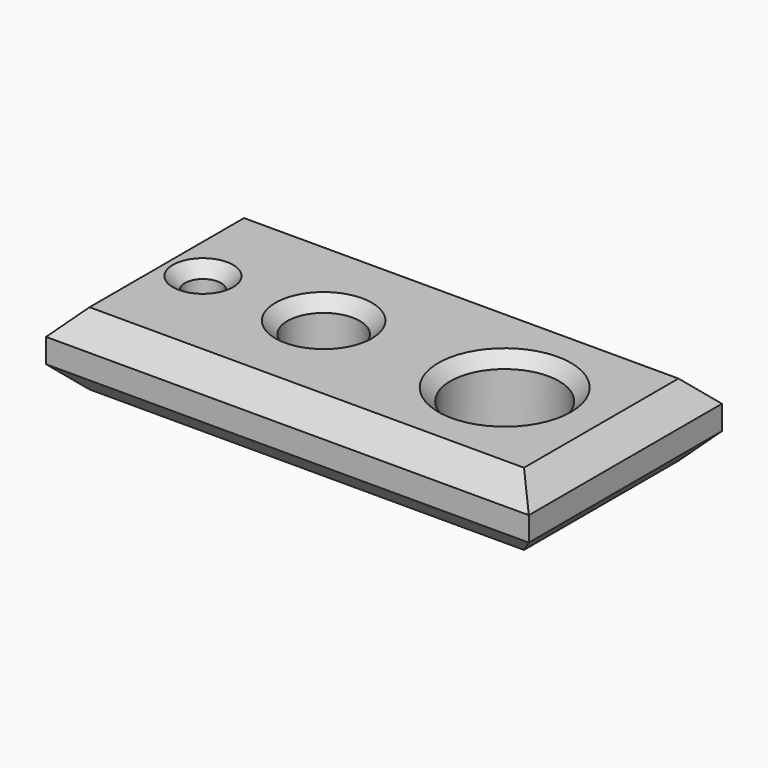
from build123d import *

# Parameters (mm, degrees)
F0_W     = 200
F0_H     = 100
F0_R     = 7.5
F0_R_2   = 15
F0_R_3   = 22.5
F1_DEPTH = 30
F2_SIZE2 = 5
F2_SIZE  = 5
F3_SIZE2 = 10
F3_SIZE  = 10


with BuildPart() as f1:
    # F0 (on Top) → F1 (new body)
    with BuildSketch(Plane.XY):
        Rectangle(F0_W, F0_H)
        with Locations((-75, 0)):
            Circle(F0_R, mode=Mode.SUBTRACT)
        with Locations((-25, 0)):
            Circle(F0_R_2, mode=Mode.SUBTRACT)
        with Locations((50, 0)):
            Circle(F0_R_3, mode=Mode.SUBTRACT)
    extrude(amount=F1_DEPTH)

    # F2
    f2_edges = [f1.edges().sort_by_distance(p)[0] for p in [
        (-82.5, 0, 30),
        (-40, 0, 30),
        (27.5, 0, 30),
    ]]
    chamfer(f2_edges, length=F2_SIZE, length2=F2_SIZE2)

    # F3
    f3_edges = [f1.edges().sort_by_distance(p)[0] for p in [
        (-100, 0, 30),
        (0, 50, 30),
        (100, 0, 30),
        (0, -50, 30),
        (0, -50, 0),
        (-100, 0, 0),
        (0, 50, 0),
        (100, 0, 0),
    ]]
    chamfer(f3_edges, length=F3_SIZE, length2=F3_SIZE2)


solid = f1.part
